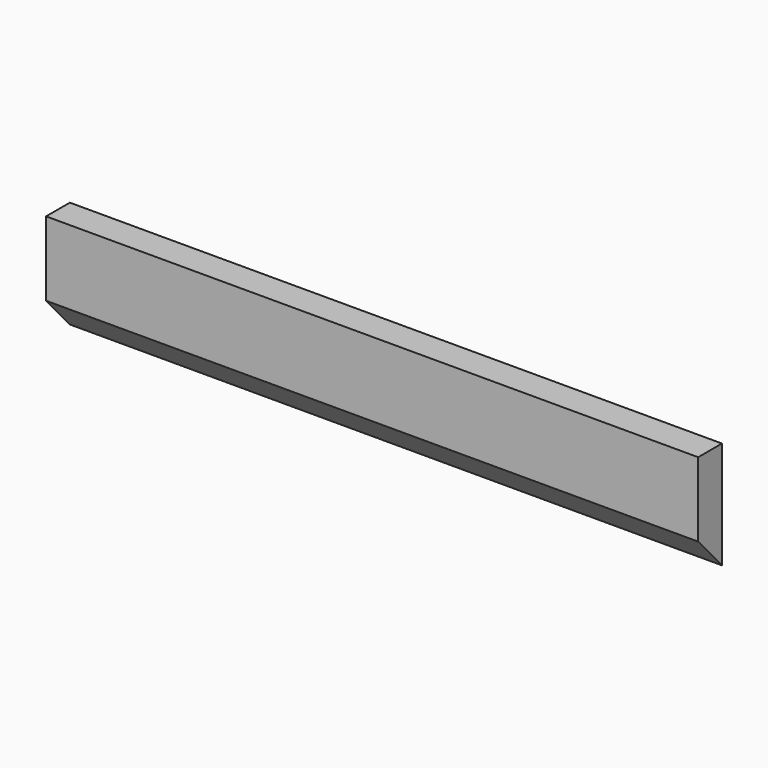
from build123d import *

# Parameters (mm, degrees)
F0_W     = 395
F0_H     = 65
F1_DEPTH = 9
F3_DEPTH = 395.001


with BuildPart() as f1:
    # F0 (on Front) → F1 (new body, symmetric)
    with BuildSketch(Plane.XZ):
        Rectangle(F0_W, F0_H)
    extrude(amount=F1_DEPTH, both=True)

    # F2 (on face) → F3 (cut, through all)
    with BuildSketch(Plane(origin=(-197.5, 0, 0), x_dir=(0, -1, 0), z_dir=(-1, 0, 0))):
        Polygon((9, -12.5), (-9, -32.5), (9, -32.5), align=None)
    extrude(amount=-F3_DEPTH, mode=Mode.SUBTRACT)


solid = f1.part
